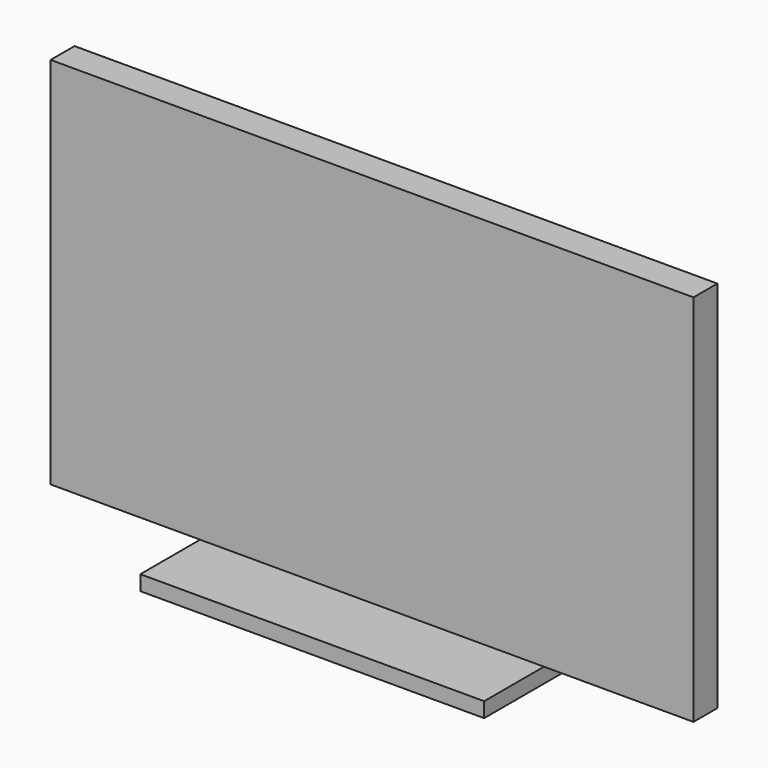
from build123d import *

# Parameters (mm, degrees)
F0_W     = 584.2
F0_H     = 304.8
F1_DEPTH = 25.4
F2_W     = 254
F2_H     = 50.8
F2_W_2   = 584.2
F3_DEPTH = 635


with BuildPart() as f1:
    # F0 (on Top) → F1 (new body)
    with BuildSketch(Plane.XY):
        Rectangle(F0_W, F0_H)
    extrude(amount=F1_DEPTH)

    # F2 (on face) → F3 (join)
    with BuildSketch(Plane.XY.offset(25.4)):
        with Locations((-419.1, 0)):
            Rectangle(F2_W, F2_H)
        Rectangle(F2_W_2, F2_H)
        with Locations((419.1, 0)):
            Rectangle(F2_W, F2_H)
    extrude(amount=F3_DEPTH)


solid = f1.part
